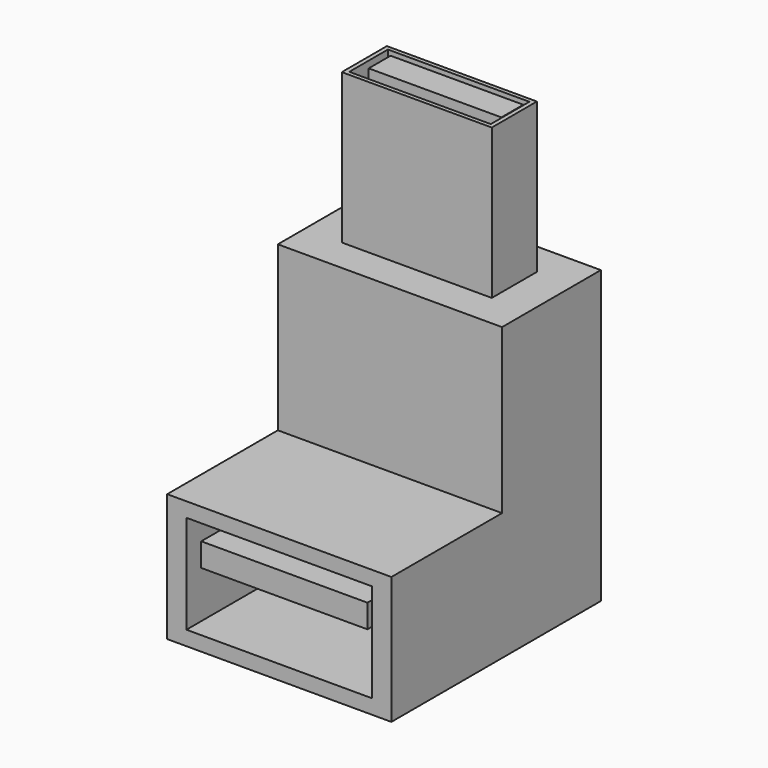
from build123d import *

# Parameters (mm, degrees)
F0_W      = 18.034
F0_H      = 23.4315
F1_DEPTH  = 21.0566
F2_W      = 18.034
F2_H      = 11.1252
F3_DEPTH  = 13.1699
F4_W      = 12.065
F4_H      = 4.5339
F5_DEPTH  = 12.065
F6_W      = 14.9352
F6_H      = 7.9248
F7_DEPTH  = 11.43
F8_W      = 11.3792
F8_H      = 3.8862
F9_DEPTH  = 11.43
F10_W     = 10.67195
F10_H     = 2.202249
F11_DEPTH = 11.176
F12_W     = 13.372126
F12_H     = 1.887192
F13_DEPTH = 10.922


with BuildPart() as f1:
    # F0 (on Front) → F1 (new body)
    with BuildSketch(Plane.XZ):
        Rectangle(F0_W, F0_H)
    extrude(amount=F1_DEPTH)

    # F2 (on face) → F3 (cut)
    with BuildSketch(Plane.XY.offset(11.71575)):
        with Locations((0, -15.494)):
            Rectangle(F2_W, F2_H)
    extrude(amount=-F3_DEPTH, mode=Mode.SUBTRACT)

    # F4 (on face) → F5 (join)
    with BuildSketch(Plane.XY.offset(11.71575)):
        with Locations((0, -4.9657)):
            Rectangle(F4_W, F4_H)
    extrude(amount=F5_DEPTH)

    # F6 (on face) → F7 (cut)
    with BuildSketch(Plane.XZ.offset(21.0566)):
        with Locations((0, -6.58495)):
            Rectangle(F6_W, F6_H)
    extrude(amount=-F7_DEPTH, mode=Mode.SUBTRACT)

    # F8 (on face) → F9 (cut)
    with BuildSketch(Plane.XY.offset(23.78075)):
        with Locations((0, -4.9657)):
            Rectangle(F8_W, F8_H)
    extrude(amount=-F9_DEPTH, mode=Mode.SUBTRACT)

    # F10 (on face) → F11 (join)
    with BuildSketch(Plane.XY.offset(12.35075)):
        with Locations((0, -4.296474)):
            Rectangle(F10_W, F10_H)
    extrude(amount=F11_DEPTH)

    # F12 (on face) → F13 (join)
    with BuildSketch(Plane.XZ.offset(9.6266)):
        with Locations((0, -5.182573)):
            Rectangle(F12_W, F12_H)
    extrude(amount=F13_DEPTH)


solid = f1.part
